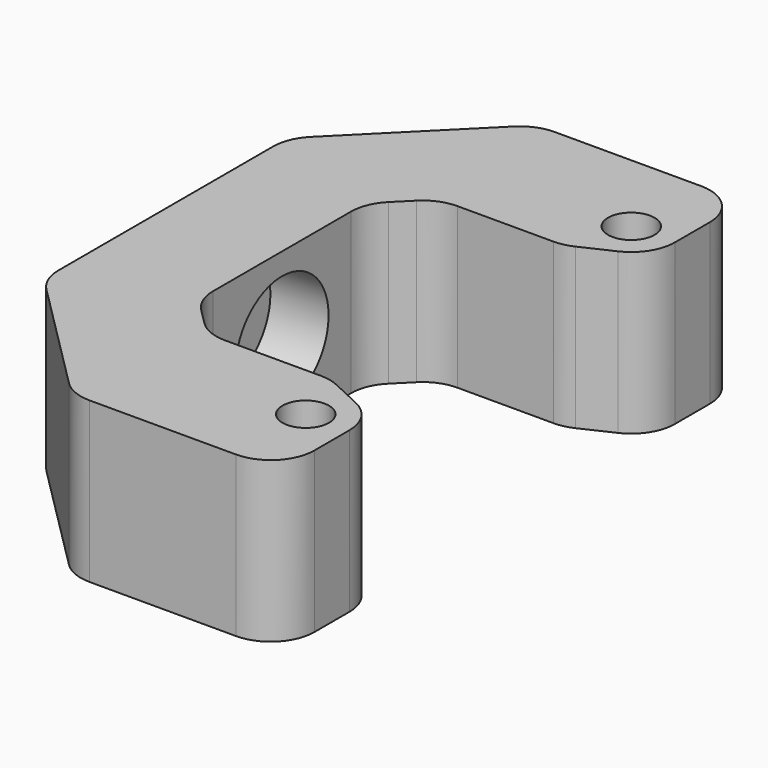
from build123d import *

# Parameters (mm, degrees)
SKETCH_R             = 1.6
PAD_DEPTH            = 5.5
SKETCH001_R          = 1.6
POCKET_DEPTH         = 8.001
POCKET001_DEPTH      = 5.501
POCKET001_DEPTH_BACK = 5.501
SKETCH003_W          = 10
SKETCH003_H          = 45
POCKET002_DEPTH      = 5.501
POCKET002_DEPTH_BACK = 5.501
SKETCH004_R          = 4
POCKET003_DEPTH      = 4
FILLET_R             = 3


with BuildPart() as part:
    # Sketch → Pad (new body, symmetric)
    with BuildSketch(Plane.XY):
        Polygon((1.514719, 20), (18.828427, 20), (18.828427, 10), (6.828427, 10), (2.828427, 10), (0, 7.171573), (0, -7.171573), (2.828427, -10), (6.828427, -10), (18.828427, -10), (18.828427, -20), (1.514719, -20), (-8, -10.485281), (-8, 10.485281), align=None)
        with Locations((12.828427, 14)):
            Circle(SKETCH_R, mode=Mode.SUBTRACT)
        with Locations((12.828427, -14)):
            Circle(SKETCH_R, mode=Mode.SUBTRACT)
    extrude(amount=PAD_DEPTH, both=True)

    # Sketch001 → Pocket (cut, through all)
    with BuildSketch(Plane.YZ):
        Circle(SKETCH001_R)
    extrude(amount=-POCKET_DEPTH, mode=Mode.SUBTRACT)

    # Sketch002 → Pocket001 (cut, two sides)
    with BuildSketch(Plane.XY) as pocket001_sk:
        Polygon((18.828427, 13.487712), (11.349004, 10), (18.828427, 10), align=None)
        Polygon((11.349004, -10), (18.828427, -13.487712), (18.828427, -10), align=None)
    extrude(amount=-POCKET001_DEPTH, mode=Mode.SUBTRACT)
    extrude(pocket001_sk.sketch, amount=POCKET001_DEPTH_BACK, mode=Mode.SUBTRACT)

    # Sketch003 → Pocket002 (cut, two sides)
    with BuildSketch(Plane.XY) as pocket002_sk:
        with Locations((20.828427, 0)):
            Rectangle(SKETCH003_W, SKETCH003_H)
    extrude(amount=-POCKET002_DEPTH, mode=Mode.SUBTRACT)
    extrude(pocket002_sk.sketch, amount=POCKET002_DEPTH_BACK, mode=Mode.SUBTRACT)

    # Sketch004 → Pocket003 (cut)
    with BuildSketch(Plane.YZ):
        Circle(SKETCH004_R)
    extrude(amount=-POCKET003_DEPTH, mode=Mode.SUBTRACT)

    # Fillet
    fillet_edges = [part.edges().sort_by_distance(p)[0] for p in [
        (15.828427, -20, 0),
        (15.828427, -12.088789, 0),
        (11.349004, -10, 0),
        (2.828427, -10, 0),
        (0, -7.171573, 0),
        (0, 7.171573, 0),
        (2.828427, 10, 0),
        (11.349004, 10, 0),
        (15.828427, 12.088789, 0),
        (15.828427, 20, 0),
        (1.514719, 20, 0),
        (-8, 10.485281, 0),
        (-8, -10.485281, 0),
        (1.514719, -20, 0),
    ]]
    fillet(fillet_edges, radius=FILLET_R)


solid = part.part
